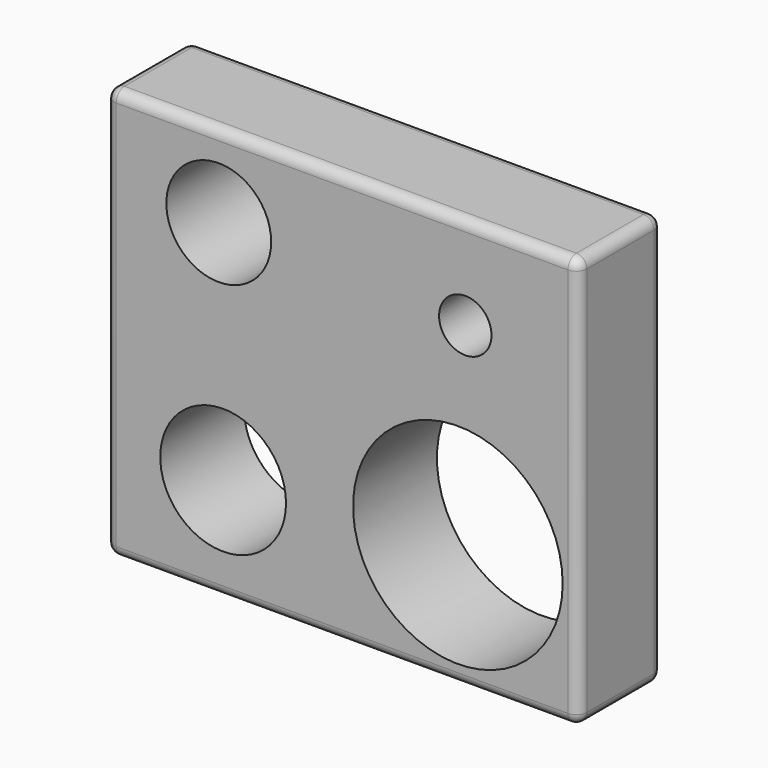
from build123d import *

# Parameters (mm, degrees)
F0_W     = 114.572242
F0_H     = 99.697284
F1_DEPTH = 25.4
F2_R     = 12.7
F2_R_2   = 6.35
F2_R_3   = 15.24
F2_R_4   = 25.4
F3_DEPTH = 25.4
F4_R     = 2.54


with BuildPart() as f1:
    # F0 (on Front) → F1 (new body)
    with BuildSketch(Plane.XZ):
        with Locations((4e-06, -1.034044)):
            Rectangle(F0_W, F0_H)
    extrude(amount=F1_DEPTH)

    # F2 (on Front) → F3 (cut)
    with BuildSketch(Plane.XZ):
        with Locations((-29.891482, 28.83641)):
            Circle(F2_R)
        with Locations((29.859781, 26.308896)):
            Circle(F2_R_2)
        with Locations((-28.831949, -25.76586)):
            Circle(F2_R_3)
        with Locations((28.062282, -21.096375)):
            Circle(F2_R_4)
    extrude(amount=F3_DEPTH, mode=Mode.SUBTRACT)

    # F4
    f4_edges = [f1.edges().sort_by_distance(p)[0] for p in [
        (4e-06, -25.4, 48.814598),
        (-57.286117, -12.7, 48.814598),
        (4e-06, 0, 48.814598),
        (57.286125, -12.7, 48.814598),
        (57.286125, -25.4, -1.034044),
        (57.286125, 0, -1.034044),
        (-57.286117, -25.4, -1.034044),
        (4e-06, -25.4, -50.882686),
        (57.286125, -12.7, -50.882686),
        (4e-06, 0, -50.882686),
        (-57.286117, -12.7, -50.882686),
        (-57.286117, 0, -1.034044),
    ]]
    fillet(f4_edges, radius=F4_R)


solid = f1.part
